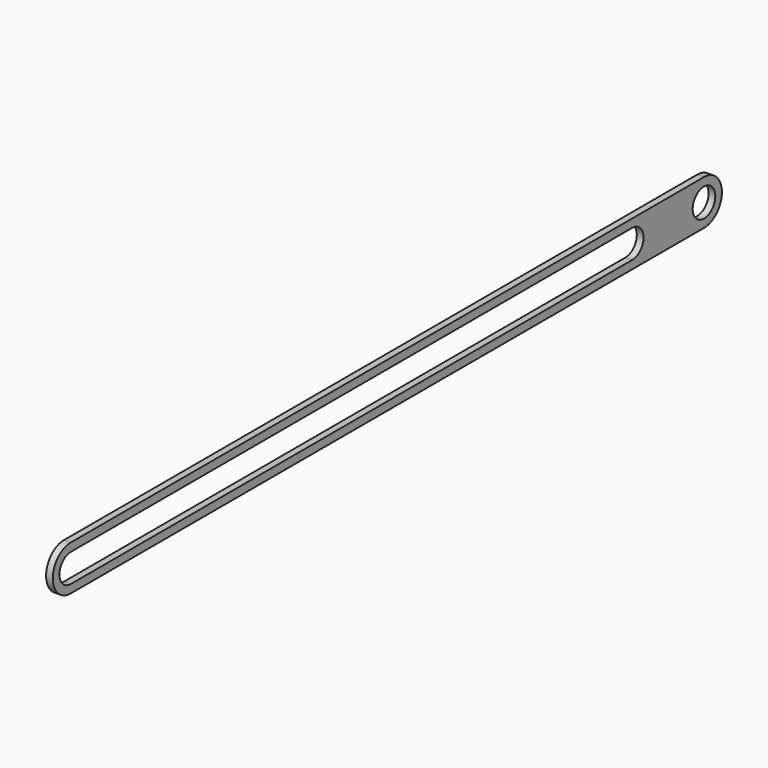
from build123d import *

# Parameters (mm, degrees)
F0_R     = 4.0005
F1_DEPTH = 1.905


with BuildPart() as f1:
    # F0 (on Right) → F1 (new body)
    with BuildSketch(Plane.YZ):
        with BuildLine():
            Line((-224.155, -6.35), (0, -6.35))
            ThreePointArc((0, -6.35), (6.35, 0), (0, 6.35))
            Line((0, 6.35), (-224.155, 6.35))
            ThreePointArc((-224.155, 6.35), (-230.505, 0), (-224.155, -6.35))
        make_face()
        with BuildLine():
            ThreePointArc((-224.155, -4.0005), (-228.1555, 0), (-224.155, 4.0005))
            Line((-224.155, 4.0005), (-25.4, 4.0005))
            ThreePointArc((-25.4, 4.0005), (-21.3995, 0), (-25.4, -4.0005))
            Line((-25.4, -4.0005), (-224.155, -4.0005))
        make_face(mode=Mode.SUBTRACT)
        Circle(F0_R, mode=Mode.SUBTRACT)
    extrude(amount=F1_DEPTH)


solid = f1.part
